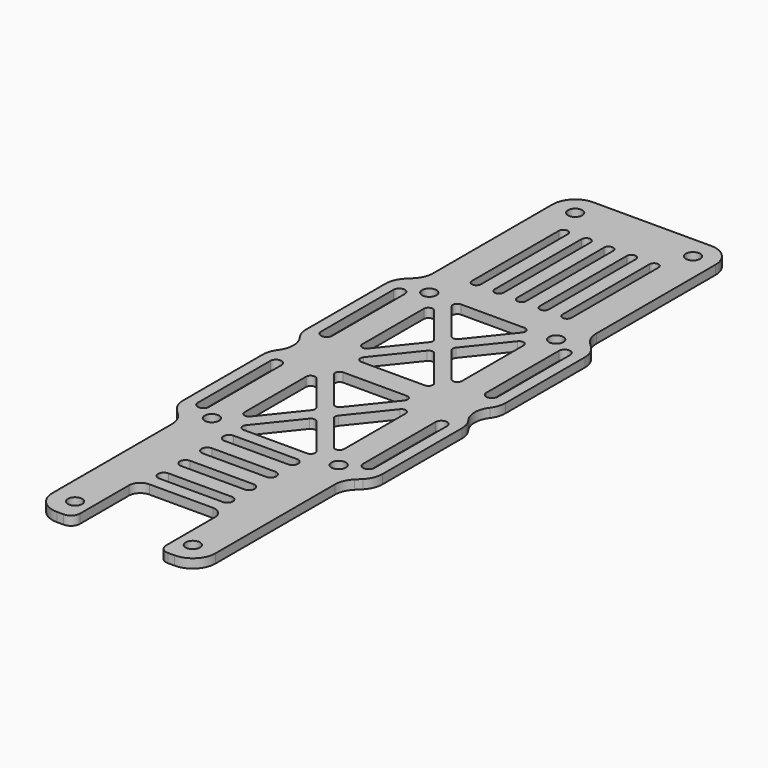
from build123d import *

# Parameters (mm, degrees)
F0_R     = 1.575
F1_DEPTH = 2
F3_DEPTH = 25


with BuildPart() as f1:
    # F0 (on Top) → F1 (new body)
    with BuildSketch(Plane.XY):
        with BuildLine():
            Line((13, 74), (0, 74))
            Line((0, 74), (-13, 74))
            ThreePointArc((-13, 74), (-16.535534, 72.535534), (-18, 69))
            Line((-18, 69), (-18, 36.071068))
            ThreePointArc((-18, 36.071068), (-18.380602, 34.157651), (-19.464466, 32.535534))
            Line((-19.464466, 32.535534), (-20.535534, 31.464466))
            ThreePointArc((-20.535534, 31.464466), (-21.619398, 29.842349), (-22, 27.928932))
            Line((-22, 27.928932), (-22, 6))
            ThreePointArc((-22, 6), (-21.743416, 4.418861), (-21, 3))
            ThreePointArc((-21, 3), (-20, 0), (-21, -3))
            ThreePointArc((-21, -3), (-21.743416, -4.418861), (-22, -6))
            Line((-22, -6), (-22, -27.928932))
            ThreePointArc((-22, -27.928932), (-21.619398, -29.842349), (-20.535534, -31.464466))
            Line((-20.535534, -31.464466), (-19.464466, -32.535534))
            ThreePointArc((-19.464466, -32.535534), (-18.380602, -34.157651), (-18, -36.071068))
            Line((-18, -36.071068), (-18, -69))
            ThreePointArc((-18, -69), (-16.535534, -72.535534), (-13, -74))
            Line((-13, -74), (-11.5, -74))
            ThreePointArc((-11.5, -74), (-10.085786, -73.414214), (-9.5, -72))
            Line((-9.5, -72), (-9.5, -58.5))
            ThreePointArc((-9.5, -58.5), (-8.767767, -56.732233), (-7, -56))
            Line((-7, -56), (0, -56))
            Line((0, -56), (7, -56))
            ThreePointArc((7, -56), (8.767767, -56.732233), (9.5, -58.5))
            Line((9.5, -58.5), (9.5, -72))
            ThreePointArc((9.5, -72), (10.085786, -73.414214), (11.5, -74))
            Line((11.5, -74), (13, -74))
            ThreePointArc((13, -74), (16.535534, -72.535534), (18, -69))
            Line((18, -69), (18, -36.071068))
            ThreePointArc((18, -36.071068), (18.380602, -34.157651), (19.464466, -32.535534))
            Line((19.464466, -32.535534), (20.535534, -31.464466))
            ThreePointArc((20.535534, -31.464466), (21.619398, -29.842349), (22, -27.928932))
            Line((22, -27.928932), (22, -6))
            ThreePointArc((22, -6), (21.743416, -4.418861), (21, -3))
            ThreePointArc((21, -3), (20, 0), (21, 3))
            ThreePointArc((21, 3), (21.743416, 4.418861), (22, 6))
            Line((22, 6), (22, 27.928932))
            ThreePointArc((22, 27.928932), (21.619398, 29.842349), (20.535534, 31.464466))
            Line((20.535534, 31.464466), (19.464466, 32.535534))
            ThreePointArc((19.464466, 32.535534), (18.380602, 34.157651), (18, 36.071068))
            Line((18, 36.071068), (18, 69))
            ThreePointArc((18, 69), (16.535534, 72.535534), (13, 74))
        make_face()
        with Locations((-13, -69)):
            Circle(F0_R, mode=Mode.SUBTRACT)
        with Locations((-14, -30)):
            Circle(F0_R, mode=Mode.SUBTRACT)
        with BuildLine():
            Line((-17, -7), (-17, -27))
            ThreePointArc((-17, -27), (-18.25, -28.25), (-19.5, -27))
            Line((-19.5, -27), (-19.5, -7))
            ThreePointArc((-19.5, -7), (-18.25, -5.75), (-17, -7))
        make_face(mode=Mode.SUBTRACT)
        with Locations((13, -69)):
            Circle(F0_R, mode=Mode.SUBTRACT)
        with Locations((14, -30)):
            Circle(F0_R, mode=Mode.SUBTRACT)
        with BuildLine():
            Line((19.5, -7), (19.5, -27))
            ThreePointArc((19.5, -27), (18.25, -28.25), (17, -27))
            Line((17, -27), (17, -7))
            ThreePointArc((17, -7), (18.25, -5.75), (19.5, -7))
        make_face(mode=Mode.SUBTRACT)
        with BuildLine():
            Line((-19.5, 7), (-19.5, 27))
            ThreePointArc((-19.5, 27), (-18.25, 28.25), (-17, 27))
            Line((-17, 27), (-17, 7))
            ThreePointArc((-17, 7), (-18.25, 5.75), (-19.5, 7))
        make_face(mode=Mode.SUBTRACT)
        with Locations((-14, 30)):
            Circle(F0_R, mode=Mode.SUBTRACT)
        with Locations((-13, 69)):
            Circle(F0_R, mode=Mode.SUBTRACT)
        with BuildLine():
            Line((17, 7), (17, 27))
            ThreePointArc((17, 27), (18.25, 28.25), (19.5, 27))
            Line((19.5, 27), (19.5, 7))
            ThreePointArc((19.5, 7), (18.25, 5.75), (17, 7))
        make_face(mode=Mode.SUBTRACT)
        with Locations((14, 30)):
            Circle(F0_R, mode=Mode.SUBTRACT)
        with Locations((13, 69)):
            Circle(F0_R, mode=Mode.SUBTRACT)
    extrude(amount=F1_DEPTH)

    # F2 (on face) → F3 (cut)
    with BuildSketch(Plane.XY.offset(2)):
        with BuildLine():
            Line((6.998438, 30), (-6.998438, 30))
            ThreePointArc((-6.998438, 30), (-7.899741, 29.433189), (-7.779307, 28.375305))
            Line((-7.779307, 28.375305), (-0.780869, 19.627258))
            ThreePointArc((-0.780869, 19.627258), (0, 19.251953), (0.780869, 19.627258))
            Line((0.780869, 19.627258), (7.779307, 28.375305))
            ThreePointArc((7.779307, 28.375305), (7.899741, 29.433189), (6.998438, 30))
        make_face()
        with BuildLine():
            ThreePointArc((-7.779307, 4.124695), (-7.899741, 3.066811), (-6.998438, 2.5))
            Line((-6.998438, 2.5), (6.998438, 2.5))
            ThreePointArc((6.998438, 2.5), (7.899741, 3.066811), (7.779307, 4.124695))
            Line((7.779307, 4.124695), (0.780869, 12.872742))
            ThreePointArc((0.780869, 12.872742), (0, 13.248047), (-0.780869, 12.872742))
            Line((-0.780869, 12.872742), (-7.779307, 4.124695))
        make_face()
        with BuildLine():
            ThreePointArc((-9.219131, 25.372742), (-10.331007, 25.691676), (-11, 24.748047))
            Line((-11, 24.748047), (-11, 7.751953))
            ThreePointArc((-11, 7.751953), (-10.331007, 6.808324), (-9.219131, 7.127258))
            Line((-9.219131, 7.127258), (-2.420693, 15.625305))
            ThreePointArc((-2.420693, 15.625305), (-2.201562, 16.25), (-2.420693, 16.874695))
            Line((-2.420693, 16.874695), (-9.219131, 25.372742))
        make_face()
        with BuildLine():
            Line((11, 7.751953), (11, 24.748047))
            ThreePointArc((11, 24.748047), (10.331007, 25.691676), (9.219131, 25.372742))
            Line((9.219131, 25.372742), (2.420693, 16.874695))
            ThreePointArc((2.420693, 16.874695), (2.201562, 16.25), (2.420693, 15.625305))
            Line((2.420693, 15.625305), (9.219131, 7.127258))
            ThreePointArc((9.219131, 7.127258), (10.331007, 6.808324), (11, 7.751953))
        make_face()
        with BuildLine():
            ThreePointArc((-6.998438, -2.5), (-7.899741, -3.066811), (-7.779307, -4.124695))
            Line((-7.779307, -4.124695), (-0.780869, -12.872742))
            ThreePointArc((-0.780869, -12.872742), (0, -13.248047), (0.780869, -12.872742))
            Line((0.780869, -12.872742), (7.779307, -4.124695))
            ThreePointArc((7.779307, -4.124695), (7.899741, -3.066811), (6.998438, -2.5))
            Line((6.998438, -2.5), (-6.998438, -2.5))
        make_face()
        with BuildLine():
            ThreePointArc((9.219131, -25.372742), (10.331007, -25.691676), (11, -24.748047))
            Line((11, -24.748047), (11, -7.751953))
            ThreePointArc((11, -7.751953), (10.331007, -6.808324), (9.219131, -7.127258))
            Line((9.219131, -7.127258), (2.420693, -15.625305))
            ThreePointArc((2.420693, -15.625305), (2.201562, -16.25), (2.420693, -16.874695))
            Line((2.420693, -16.874695), (9.219131, -25.372742))
        make_face()
        with BuildLine():
            ThreePointArc((-2.420693, -16.874695), (-2.201562, -16.25), (-2.420693, -15.625305))
            Line((-2.420693, -15.625305), (-9.219131, -7.127258))
            ThreePointArc((-9.219131, -7.127258), (-10.331007, -6.808324), (-11, -7.751953))
            Line((-11, -7.751953), (-11, -24.748047))
            ThreePointArc((-11, -24.748047), (-10.331007, -25.691676), (-9.219131, -25.372742))
            Line((-9.219131, -25.372742), (-2.420693, -16.874695))
        make_face()
        with BuildLine():
            ThreePointArc((0.780869, -19.627258), (0, -19.251953), (-0.780869, -19.627258))
            Line((-0.780869, -19.627258), (-7.779307, -28.375305))
            ThreePointArc((-7.779307, -28.375305), (-7.899741, -29.433189), (-6.998438, -30))
            Line((-6.998438, -30), (6.998438, -30))
            ThreePointArc((6.998438, -30), (7.899741, -29.433189), (7.779307, -28.375305))
            Line((7.779307, -28.375305), (0.780869, -19.627258))
        make_face()
        with BuildLine():
            ThreePointArc((-9, 62), (-10, 63), (-11, 62))
            Line((-11, 62), (-11, 38))
            ThreePointArc((-11, 38), (-10, 37), (-9, 38))
            Line((-9, 38), (-9, 62))
        make_face()
        with BuildLine():
            ThreePointArc((-4, 62), (-5, 63), (-6, 62))
            Line((-6, 62), (-6, 38))
            ThreePointArc((-6, 38), (-5, 37), (-4, 38))
            Line((-4, 38), (-4, 62))
        make_face()
        with BuildLine():
            ThreePointArc((1, 62), (0, 63), (-1, 62))
            Line((-1, 62), (-1, 38))
            ThreePointArc((-1, 38), (0, 37), (1, 38))
            Line((1, 38), (1, 62))
        make_face()
        with BuildLine():
            ThreePointArc((6, 62), (5, 63), (4, 62))
            Line((4, 62), (4, 38))
            ThreePointArc((4, 38), (5, 37), (6, 38))
            Line((6, 38), (6, 62))
        make_face()
        with BuildLine():
            ThreePointArc((11, 62), (10, 63), (9, 62))
            Line((9, 62), (9, 38))
            ThreePointArc((9, 38), (10, 37), (11, 38))
            Line((11, 38), (11, 62))
        make_face()
        with BuildLine():
            ThreePointArc((-7, -50.75), (-8.25, -52), (-7, -53.25))
            Line((-7, -53.25), (7, -53.25))
            ThreePointArc((7, -53.25), (8.25, -52), (7, -50.75))
            Line((7, -50.75), (-7, -50.75))
        make_face()
        with BuildLine():
            ThreePointArc((-7, -44.75), (-8.25, -46), (-7, -47.25))
            Line((-7, -47.25), (7, -47.25))
            ThreePointArc((7, -47.25), (8.25, -46), (7, -44.75))
            Line((7, -44.75), (-7, -44.75))
        make_face()
        with BuildLine():
            ThreePointArc((-7, -38.75), (-8.25, -40), (-7, -41.25))
            Line((-7, -41.25), (7, -41.25))
            ThreePointArc((7, -41.25), (8.25, -40), (7, -38.75))
            Line((7, -38.75), (-7, -38.75))
        make_face()
        with BuildLine():
            ThreePointArc((-7, -32.75), (-8.25, -34), (-7, -35.25))
            Line((-7, -35.25), (7, -35.25))
            ThreePointArc((7, -35.25), (8.25, -34), (7, -32.75))
            Line((7, -32.75), (-7, -32.75))
        make_face()
    extrude(amount=-F3_DEPTH, mode=Mode.SUBTRACT)


solid = f1.part
